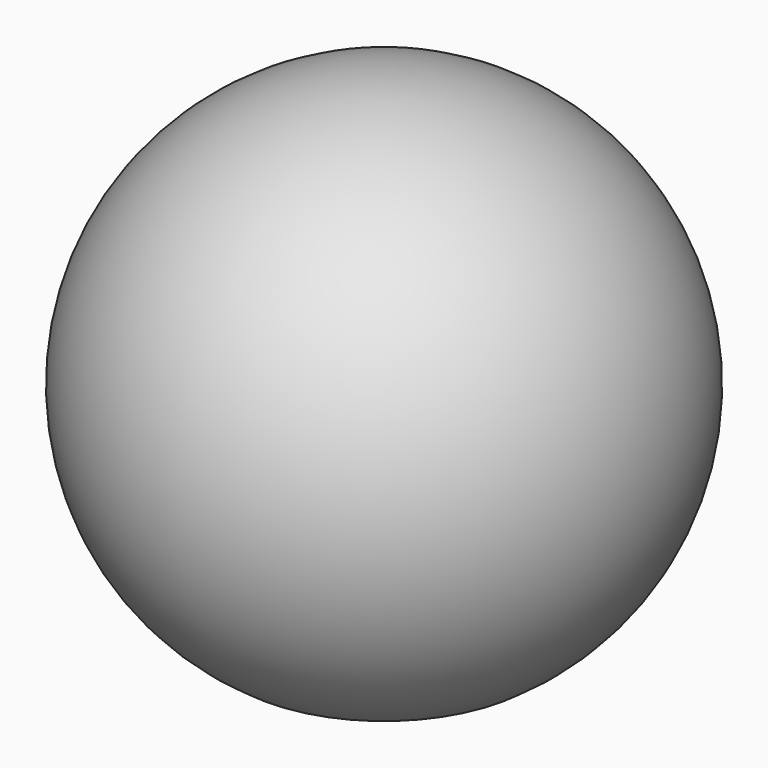
from build123d import *

# Parameters (mm, degrees)
F3_D     = 5.1054
F3_DEPTH = 12.7
F3_TIP   = 1.5338169022


with BuildPart() as f1:
    # F0 (on Right) → F1 (revolve)
    with BuildSketch(Plane.YZ):
        with BuildLine():
            Line((0, -14.2557146436), (0, 17.145))
            ThreePointArc((0, 17.145), (-16.4067859827, 4.9767859827), (-9.525, -14.2557146436))
            Line((-9.525, -14.2557146436), (0, -14.2557146436))
        make_face()
    revolve(axis=Axis((0, 0, 1.4446426782), (0, 0, 1)))

    # F3
    with Locations(Plane(origin=(0, 0, -14.2557146436), x_dir=(1, 0, 0), z_dir=(0, 0, -1))):
        with Locations((0, 0)):
            Hole(F3_D / 2, depth=F3_DEPTH)
            with Locations((0, 0, -(F3_DEPTH + F3_TIP / 2))):  # 118° drill point
                Cone(0, F3_D / 2, F3_TIP, mode=Mode.SUBTRACT)


solid = f1.part
